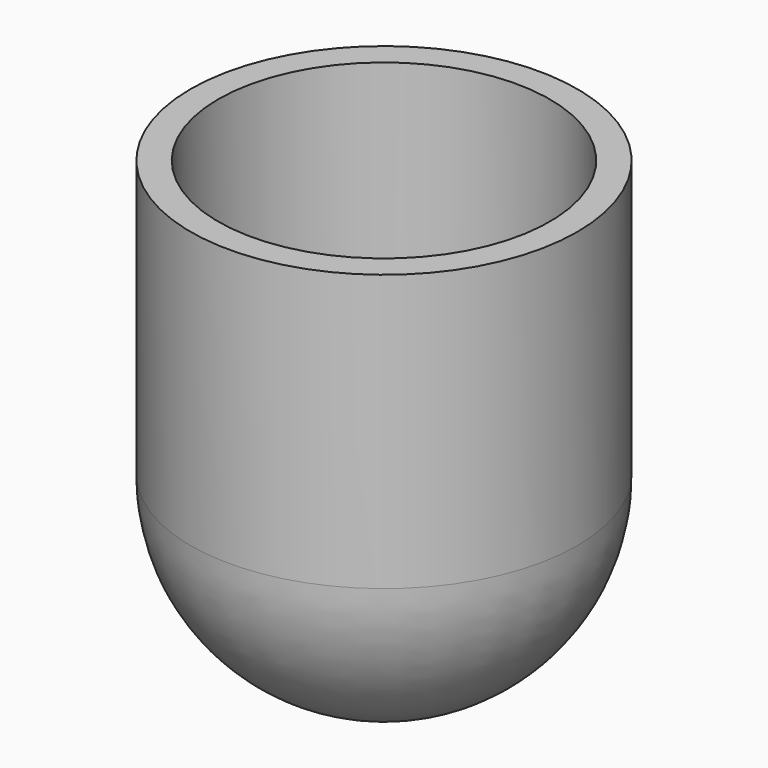
from build123d import *


with BuildPart() as f1:
    # F0 (on Front) → F1 (revolve)
    with BuildSketch(Plane.XZ):
        with BuildLine():
            Line((-7, 10), (-7, 0))
            ThreePointArc((-7, 0), (-4.949747, -4.949747), (0, -7))
            Line((0, -7), (0, 0))
            Line((0, 0), (-6, 0))
            Line((-6, 0), (-6, 10))
            Line((-6, 10), (-7, 10))
        make_face()
    revolve(axis=Axis((0, 0, -3.5), (0, 0, 1)))


solid = f1.part
